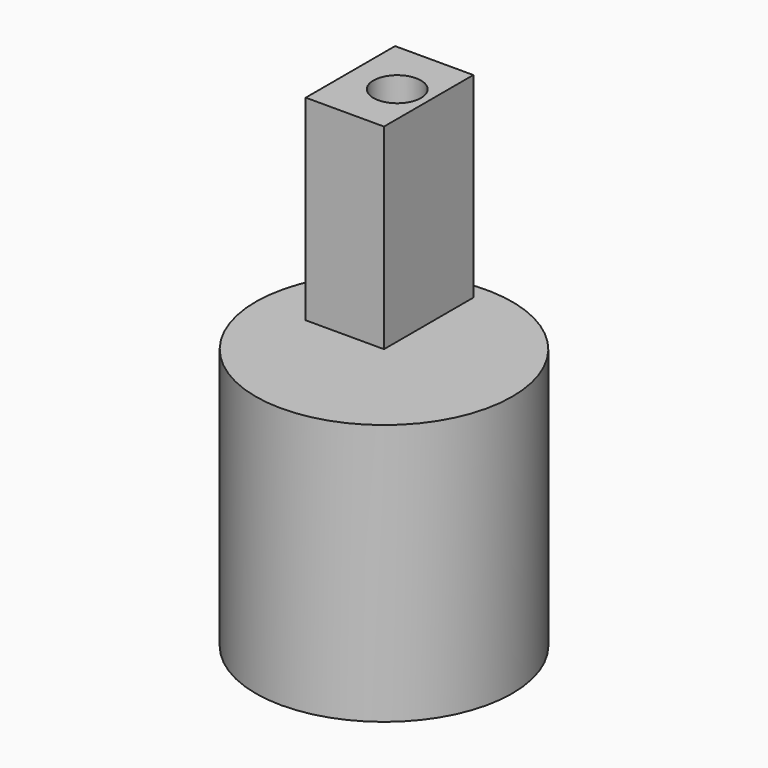
from build123d import *

# Parameters (mm, degrees)
F0_R     = 49.8893389147
F1_DEPTH = 101.6
F2_W     = 30.4349269718
F2_H     = 18.0141068995
F3_DEPTH = 76.2
F4_W     = 30.4349269718
F4_H     = 76.2
F5_DEPTH = 25.4
F6_R     = 9.2441651786
F7_DEPTH = 50.8


with BuildPart() as f1:
    # F0 (on Top) → F1 (new body)
    with BuildSketch(Plane.XY):
        Circle(F0_R)
    extrude(amount=F1_DEPTH)

    # F2 (on face) → F3 (join)
    with BuildSketch(Plane.XY.offset(101.6)):
        with Locations((-15.2174634859, 9.0070534497)):
            Rectangle(F2_W, F2_H)
    extrude(amount=F3_DEPTH)

    # F4 (on face) → F5 (join)
    with BuildSketch(Plane(origin=(0, 18.0141068995, 0), x_dir=(-1, 0, 0), z_dir=(0, 1, 0))):
        with Locations((15.2174634859, 139.7)):
            Rectangle(F4_W, F4_H)
        Polygon((10.7914097607, 139.7), (17.1193554997, 157.3033481836), (24.5937909931, 139.7), align=None, mode=Mode.SUBTRACT)
    extrude(amount=F5_DEPTH)

    # F6 (on face) → F7 (cut)
    with BuildSketch(Plane.XY.offset(177.8)):
        with Locations((-12.1928649023, 21.6732509434)):
            Circle(F6_R)
    extrude(amount=-F7_DEPTH, mode=Mode.SUBTRACT)


solid = f1.part
